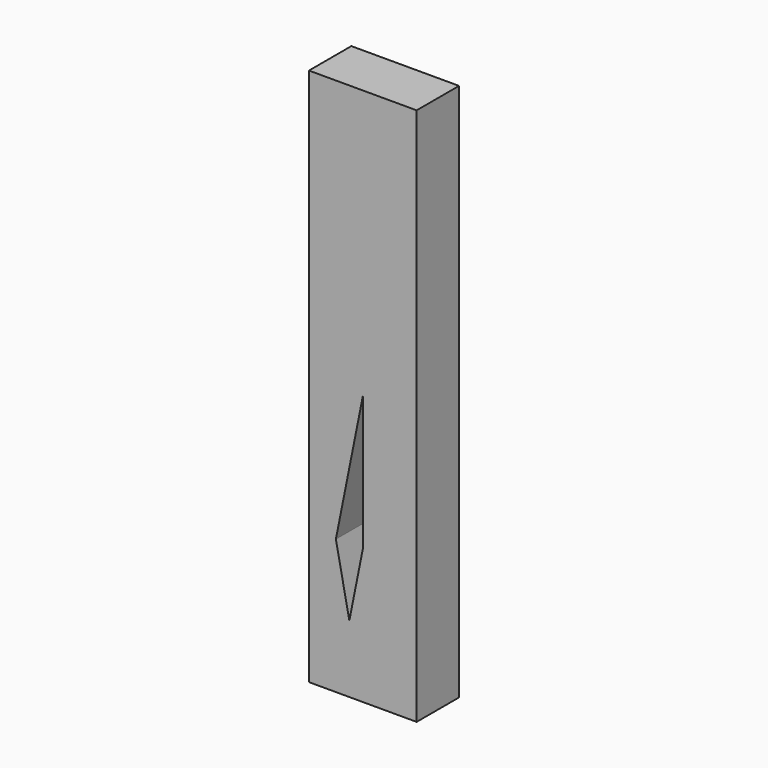
from build123d import *

# Parameters (mm, degrees)
F1_DEPTH = 25
F2_DEPTH = 151.7347842455


with BuildPart() as f1:
    # F0 (on Front) → F1 (new body)
    with BuildSketch(Plane.XZ):
        Polygon((12.7084971848, 63.4575140762), (25.4, 63.5), (25.4, 127), (12.7, 63.5), align=None)
        Polygon((0, 0), (6.35, -31.75), (12.7, 0), align=None)
        Polygon((12.7, -127), (25.4, -127), (12.7, -63.5), align=None)
        Polygon((12.7, 63.5), (25.4, 127), (12.7, 127), align=None)
        Polygon((0, -127), (12.7, -127), (12.7, -63.5), align=None)
        Polygon((0, -63.5), (6.35, -31.75), (0, 0), align=None)
        Polygon((-12.7, -63.5), (-12.7, -127), (-6.35, -95.25), align=None)
        Polygon((12.7, -63.5), (25.4, -127), (25.4, -63.5), align=None)
        Polygon((12.7, -63.5), (25.4, -63.5), (25.4, 0), align=None)
        Polygon((0, 0), (12.7, 0), (12.7, 63.4574856311), (12.6914914296, 63.4574571479), align=None)
        Polygon((-25.4, -127), (-12.7, -63.5), (-25.4, -63.5), align=None)
        Polygon((-25.4, -127), (-12.7, -127), (-12.7, -63.5), align=None)
        Polygon((-12.7, -63.5), (0, 0), (-12.7, 0), align=None)
        Polygon((-25.4, 127), (-12.7, 63.5), (-12.7, 127), align=None)
        Polygon((-12.7, 0), (0, 0), (-12.6745084457, 63.3725422285), (-12.7, 63.3724568933), align=None)
        Polygon((0, -63.5), (12.7, -63.5), (6.35, -31.75), align=None)
        Polygon((0, 127), (12.7, 63.5), (12.7, 127), align=None)
        Polygon((12.7084971848, 63.4575140762), (25.4, 0), (25.4, 63.5), align=None)
        Polygon((-25.4, 63.3299425244), (-25.4, 0), (-12.7255257112, 63.3723714438), align=None)
        Polygon((6.35, -31.75), (12.7, -63.5), (12.7, 0), align=None)
        Polygon((-6.35, -95.25), (0, -127), (0, -63.5), align=None)
        Polygon((-12.7255257112, 63.3723714438), (-12.7, 63.5), (-25.4, 127), (-25.4, 63.3299425244), align=None)
        Polygon((-12.7, -127), (0, -127), (-6.35, -95.25), align=None)
        Polygon((12.7, -63.5), (25.4, -127), (25.4, -63.5), align=None)
        Polygon((12.7, -127), (25.4, -127), (12.7, -63.5), align=None)
        Polygon((0, -127), (12.7, -127), (12.7, -63.5), align=None)
        Polygon((12.7, -63.5), (25.4, -63.5), (25.4, 0), align=None)
        Polygon((12.7, 0), (12.7, -63.5), (25.4, 0), align=None)
        Polygon((0, -127), (12.7, -63.5), (0, -63.5), align=None)
        Polygon((-6.35, -95.25), (0, -127), (0, -63.5), align=None)
        Polygon((-12.7, -127), (0, -127), (-6.35, -95.25), align=None)
        Polygon((12.7084971848, 63.4575140762), (25.4, 0), (25.4, 63.5), align=None)
        Polygon((12.7, 0), (25.4, 0), (12.7084971848, 63.4575140762), (12.7, 63.4574856311), align=None)
        Polygon((-25.4, -127), (-12.7, -127), (-12.7, -63.5), align=None)
        Polygon((-12.7, -63.5), (-12.7, -127), (-6.35, -95.25), align=None)
        Polygon((12.7084971848, 63.4575140762), (25.4, 63.5), (25.4, 127), (12.7, 63.5), align=None)
        Polygon((-25.4, -63.5), (-12.7, -63.5), (-25.4, 0), align=None)
        Polygon((-25.4, 0), (-12.7, -63.5), (-12.7, 0), align=None)
        Polygon((-25.4, -127), (-12.7, -63.5), (-25.4, -63.5), align=None)
        Polygon((12.7, 63.5), (25.4, 127), (12.7, 127), align=None)
        Polygon((12.6914914296, 63.4574571479), (12.7, 63.5), (0, 127), (0, 63.4149712622), align=None)
        Polygon((0, 127), (12.7, 63.5), (12.7, 127), align=None)
        Polygon((-12.7, 63.5), (-12.6745084457, 63.3725422285), (0, 63.4149712622), (0, 127), align=None)
        Polygon((-25.4, 0), (-12.7, 0), (-12.7, 63.3724568933), (-12.7255257112, 63.3723714438), align=None)
        Polygon((-25.4, 63.3299425244), (-25.4, 0), (-12.7255257112, 63.3723714438), align=None)
        Polygon((-12.7, 63.5), (0, 127), (-12.7, 127), align=None)
        Polygon((-12.7255257112, 63.3723714438), (-12.7, 63.5), (-25.4, 127), (-25.4, 63.3299425244), align=None)
        Polygon((-25.4, 127), (-12.7, 63.5), (-12.7, 127), align=None)
        Polygon((-12.6745084457, 63.3725422285), (0, 0), (0, 63.4149712622), align=None)
        Polygon((-25.4, -63.5), (-12.7, -63.5), (-25.4, 0), align=None)
        Polygon((0, 63.4149712622), (0, 0), (12.6914914296, 63.4574571479), align=None)
        Polygon((-12.7, 63.5), (0, 127), (-12.7, 127), align=None)
    extrude(amount=F1_DEPTH)

    # F0 (on Front) → F2 (cut)
    with BuildSketch(Plane.XZ):
        Polygon((0, 0), (12.7, 0), (12.7, 63.4574856311), (12.6914914296, 63.4574571479), align=None)
        Polygon((6.35, -31.75), (12.7, -63.5), (12.7, 0), align=None)
        Polygon((12.7, 0), (25.4, 0), (12.7084971848, 63.4575140762), (12.7, 63.4574856311), align=None)
        Polygon((-25.4, 0), (-12.7, 0), (-12.7, 63.3724568933), (-12.7255257112, 63.3723714438), align=None)
        Polygon((0, 0), (6.35, -31.75), (12.7, 0), align=None)
        Polygon((-12.7, 0), (0, 0), (-12.6745084457, 63.3725422285), (-12.7, 63.3724568933), align=None)
        Polygon((12.7, 0), (12.7, -63.5), (25.4, 0), align=None)
        Polygon((-12.7, -63.5), (0, 0), (-12.7, 0), align=None)
        Polygon((-25.4, 0), (-12.7, -63.5), (-12.7, 0), align=None)
    extrude(amount=-F2_DEPTH, mode=Mode.SUBTRACT)


solid = f1.part
